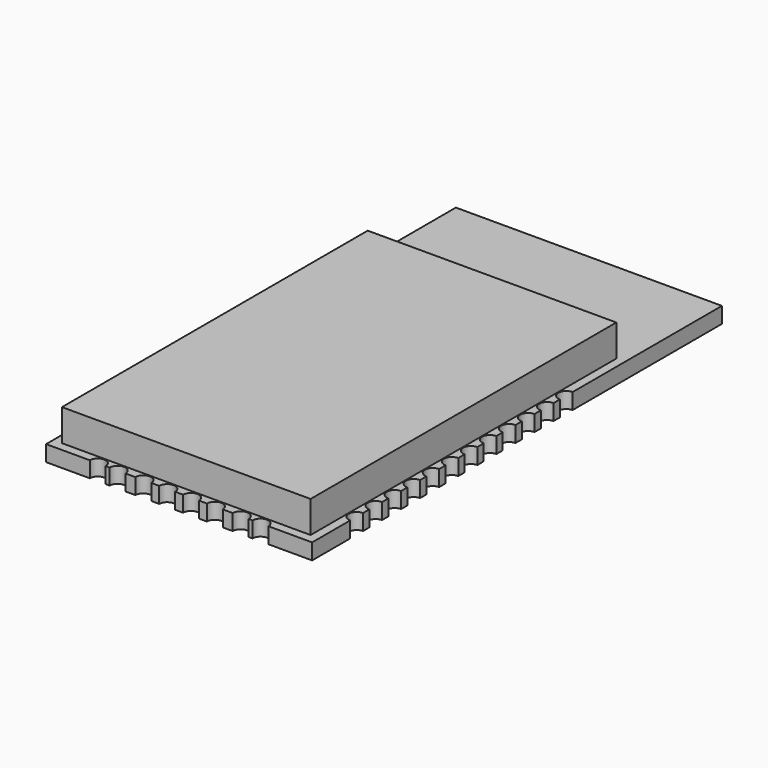
from build123d import *

# Parameters (mm, degrees)
F0_W     = 13.4
F0_H     = 25.8
F1_DEPTH = 0.8
F2_R     = 0.4
F3_DEPTH = 25
F4_W     = 12.522456
F4_H     = 19.248359
F5_DEPTH = 1.6


with BuildPart() as f1:
    # F0 (on Top) → F1 (new body)
    with BuildSketch(Plane.XY):
        with Locations((0, 12.9)):
            Rectangle(F0_W, F0_H)
    extrude(amount=F1_DEPTH)

    # F2 (on face) → F3 (cut)
    with BuildSketch(Plane.XY.offset(0.8)):
        with Locations((-6.7, 2.8)):
            Circle(F2_R)
        with Locations((-6.7, 4)):
            Circle(F2_R)
        with Locations((-6.7, 5.2)):
            Circle(F2_R)
        with Locations((-6.7, 6.4)):
            Circle(F2_R)
        with Locations((-6.7, 7.6)):
            Circle(F2_R)
        with Locations((-6.7, 8.8)):
            Circle(F2_R)
        with Locations((-6.7, 10)):
            Circle(F2_R)
        with Locations((-6.7, 11.2)):
            Circle(F2_R)
        with Locations((-6.7, 12.4)):
            Circle(F2_R)
        with Locations((-6.7, 13.6)):
            Circle(F2_R)
        with Locations((-6.7, 14.8)):
            Circle(F2_R)
        with Locations((-6.7, 16)):
            Circle(F2_R)
        with Locations((6.7, 2.8)):
            Circle(F2_R)
        with Locations((6.7, 4)):
            Circle(F2_R)
        with Locations((6.7, 5.2)):
            Circle(F2_R)
        with Locations((6.7, 6.4)):
            Circle(F2_R)
        with Locations((6.7, 7.6)):
            Circle(F2_R)
        with Locations((6.7, 8.8)):
            Circle(F2_R)
        with Locations((6.7, 10)):
            Circle(F2_R)
        with Locations((6.7, 11.2)):
            Circle(F2_R)
        with Locations((6.7, 12.4)):
            Circle(F2_R)
        with Locations((6.7, 13.6)):
            Circle(F2_R)
        with Locations((6.7, 14.8)):
            Circle(F2_R)
        with Locations((6.7, 16)):
            Circle(F2_R)
        with Locations((-4.1, 0)):
            Circle(F2_R)
        with Locations((-3.1, 0)):
            Circle(F2_R)
        with Locations((-1.8, 0)):
            Circle(F2_R)
        with Locations((-0.6, 0)):
            Circle(F2_R)
        with Locations((0.6, 0)):
            Circle(F2_R)
        with Locations((1.8, 0)):
            Circle(F2_R)
        with Locations((3.1, 0)):
            Circle(F2_R)
        with Locations((4.1, 0)):
            Circle(F2_R)
    extrude(amount=-F3_DEPTH, mode=Mode.SUBTRACT)

    # F4 (on face) → F5 (join)
    with BuildSketch(Plane.XY.offset(0.8)):
        with Locations((0, 10.07582)):
            Rectangle(F4_W, F4_H)
    extrude(amount=F5_DEPTH)


solid = f1.part
